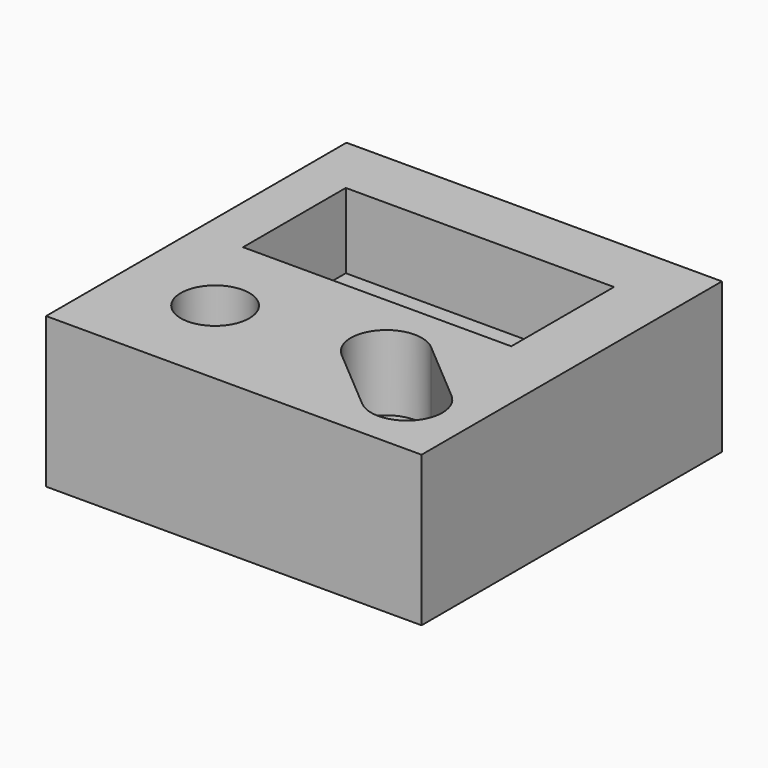
from build123d import *

# Parameters (mm, degrees)
SKETCH_W        = 50
SKETCH_H        = 50
SKETCH_R        = 4.56572
PAD_DEPTH       = 20
SKETCH001_W     = 35.718838
SKETCH001_H     = 17.102667
POCKET_DEPTH    = 10
POCKET001_DEPTH = 10


with BuildPart() as part:
    # Sketch → Pad (new body)
    with BuildSketch(Plane.XY):
        Rectangle(SKETCH_W, SKETCH_H)
        with Locations((-12.739399, -12.190962)):
            Circle(SKETCH_R, mode=Mode.SUBTRACT)
    extrude(amount=-PAD_DEPTH)

    # Sketch001 → Pocket (cut)
    with BuildSketch(Plane.XY):
        with Locations((-0.828983, 8.449547)):
            Rectangle(SKETCH001_W, SKETCH001_H)
    extrude(amount=-POCKET_DEPTH, mode=Mode.SUBTRACT)

    # Sketch002 → Pocket001 (cut)
    with BuildSketch(Plane.XY):
        with BuildLine():
            ThreePointArc((10.613772, -5.440841), (3.942315, -5.985276), (4.48675, -12.656733))
            Line((4.48675, -12.656733), (12.984974, -19.872584))
            ThreePointArc((12.984974, -19.872584), (19.656431, -19.328148), (19.111996, -12.656692))
            Line((10.613772, -5.440841), (19.111996, -12.656692))
        make_face()
    extrude(amount=-POCKET001_DEPTH, mode=Mode.SUBTRACT)


solid = part.part
